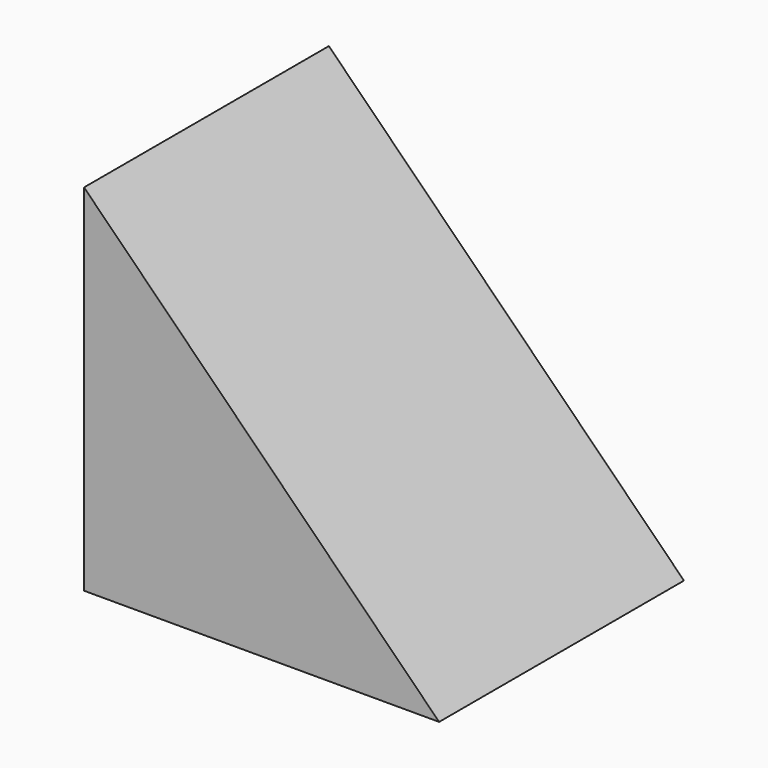
from build123d import *

# Parameters (mm, degrees)
F1_DEPTH = 19.5
F2_T     = -1
F4_DEPTH = 8
F5_SIZE  = 0.5


with BuildPart() as f1:
    # F0 (on Front) → F1 (new body)
    with BuildSketch(Plane.XZ):
        Polygon((-11.313708499, 11.313708499), (-11.313708499, -11.313708499), (11.313708499, -11.313708499), align=None)
    extrude(amount=F1_DEPTH)

    # F2
    f2_openings = [f1.faces().sort_by_distance(p)[0] for p in [
        (0, -9.75, -11.313708),
        (-11.313708, -9.75, 0),
    ]]
    offset(amount=F2_T, openings=f2_openings)

    # F3 (on face) → F4 (join)
    with BuildSketch(Plane(origin=(-0.7071067812, 0, -0.7071067812), x_dir=(0, -1, 0), z_dir=(-0.7071067812, 0, -0.7071067812))):
        with BuildLine():
            Line((15.25, 1), (4.25, 1))
            ThreePointArc((4.25, 1), (3.5428932188, 0.7071067812), (3.25, 0))
            ThreePointArc((3.25, 0), (3.5428932188, -0.7071067812), (4.25, -1))
            Line((4.25, -1), (15.25, -1))
            ThreePointArc((15.25, -1), (15.9571067812, -0.7071067812), (16.25, 0))
            ThreePointArc((16.25, 0), (15.9571067812, 0.7071067812), (15.25, 1))
        make_face()
    extrude(amount=F4_DEPTH)

    # F5
    f5_edges = [f1.edges().sort_by_distance(p)[0] for p in [
        (-0.707107, -1, -11.313708),
        (-11.313708, -1, -0.707107),
        (-11.313708, -18.5, -0.707107),
        (-0.707107, -18.5, -11.313708),
    ]]
    chamfer(f5_edges, length=F5_SIZE)


solid = f1.part
